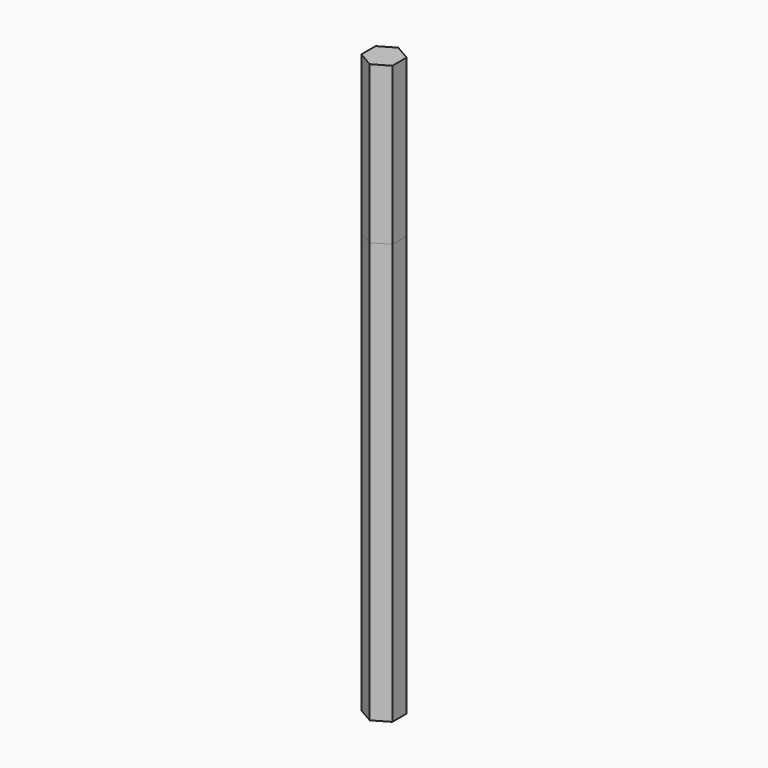
from build123d import *

# Parameters (mm, degrees)
F1_DEPTH = 186.69
F2_DEPTH = 50.8


with BuildPart() as f1:
    # F0 (on Top) → F1 (new body)
    with BuildSketch(Plane.XY):
        Polygon((5, -2.886751), (5, 2.886751), (0, 5.773503), (-5, 2.886751), (-5, -2.886751), (0, -5.773503), align=None)
    extrude(amount=-F1_DEPTH)


with BuildPart() as f2:
    # F0 (on Top) → F2 (new body)
    with BuildSketch(Plane.XY):
        Polygon((5, -2.886751), (5, 2.886751), (0, 5.773503), (-5, 2.886751), (-5, -2.886751), (0, -5.773503), align=None)
    extrude(amount=-F2_DEPTH)


solid = Compound([f1.part, f2.part])
